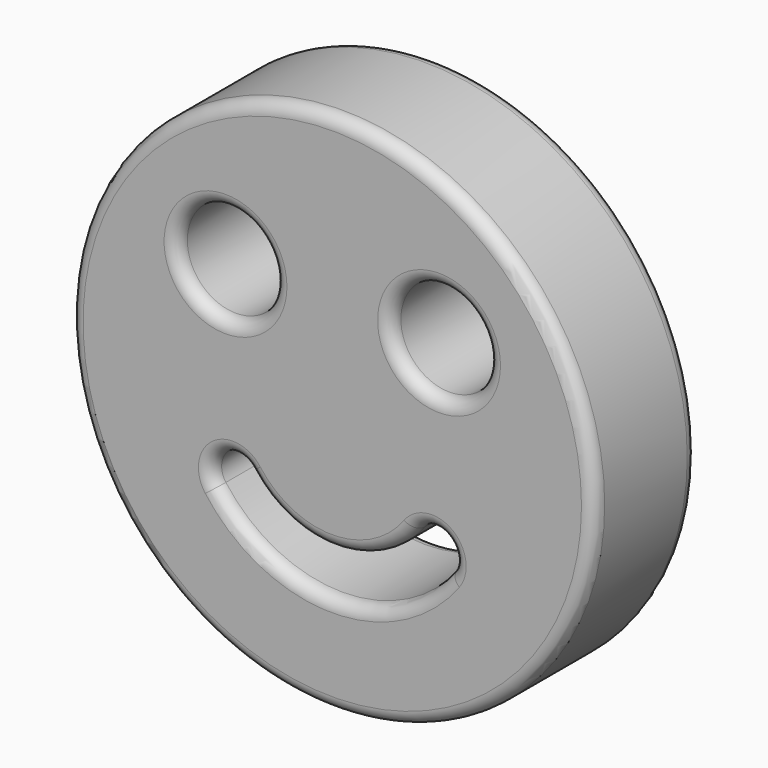
from build123d import *

# Parameters (mm, degrees)
F0_R     = 77.441158
F0_R_2   = 14.339576
F1_DEPTH = 38.1
F2_R     = 3.81
F3_R     = 3.81


with BuildPart() as f1:
    # F0 (on Front) → F1 (new body)
    with BuildSketch(Plane.XZ):
        Circle(F0_R)
        with BuildLine():
            ThreePointArc((34.493997, -30.631332), (0, -47.991594), (-34.493997, -30.631332))
            ThreePointArc((-34.493997, -30.631332), (-33.177371, -21.748118), (-24.294157, -23.064744))
            ThreePointArc((-24.294157, -23.064744), (0, -35.291594), (24.294157, -23.064744))
            ThreePointArc((24.294157, -23.064744), (33.177371, -21.748118), (34.493997, -30.631332))
        make_face(mode=Mode.SUBTRACT)
        with Locations((-31.547068, 28.679153)):
            Circle(F0_R_2, mode=Mode.SUBTRACT)
        with Locations((31.547068, 28.679153)):
            Circle(F0_R_2, mode=Mode.SUBTRACT)
    extrude(amount=F1_DEPTH)

    # F2
    f2_edges = [f1.edges().sort_by_distance(p)[0] for p in [
        (0, -38.1, -35.291594),
        (-33.177371, -38.1, -21.748118),
    ]]
    fillet(f2_edges, radius=F2_R)

    # F3
    f3_edges = [f1.edges().sort_by_distance(p)[0] for p in [
        (-45.886644, -38.1, 28.679153),
        (17.207492, -38.1, 28.679153),
        (-77.441158, -38.1, 0),
        (-77.441158, 0, 0),
        (0, 0, -35.291594),
        (17.207492, 0, 28.679153),
        (-45.886644, 0, 28.679153),
    ]]
    fillet(f3_edges, radius=F3_R)


solid = f1.part
